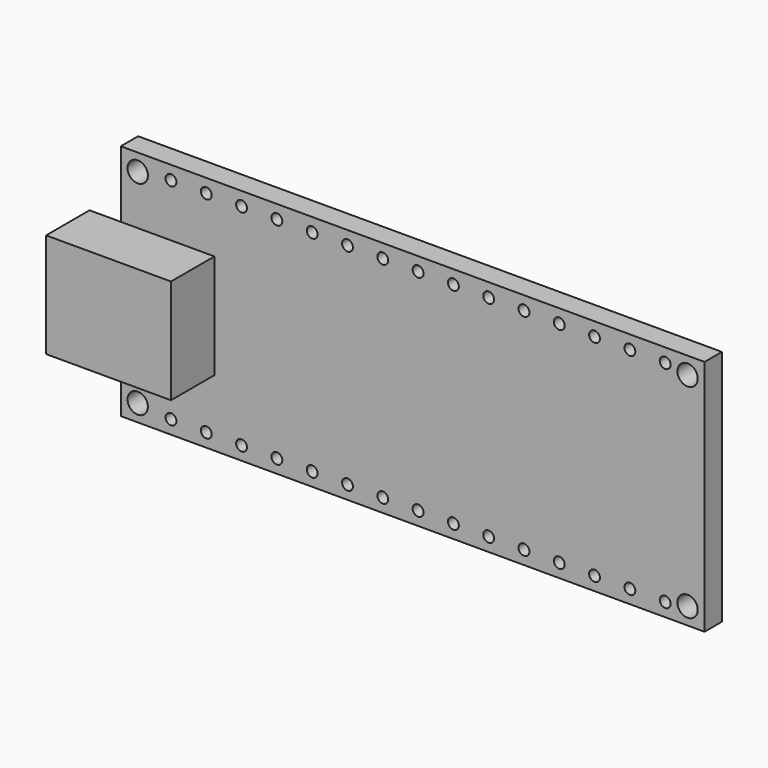
from build123d import *

# Parameters (mm, degrees)
F0_W     = 43
F0_H     = 17.5
F1_DEPTH = 1.6
F2_W     = 9.2
F2_H     = 7.7
F3_DEPTH = 4
F4_R     = 0.75
F5_DEPTH = 1.601
F6_R     = 0.4
F7_DEPTH = 1.601


with BuildPart() as f1:
    # F0 (on Front) → F1 (new body)
    with BuildSketch(Plane.XZ):
        Rectangle(F0_W, F0_H)
    extrude(amount=F1_DEPTH)

    # F2 (on face) → F3 (join)
    with BuildSketch(Plane.XZ.offset(1.6)):
        with Locations((-19.2, 0)):
            Rectangle(F2_W, F2_H)
    extrude(amount=F3_DEPTH)

    # F4 (on face) → F5 (cut, through all)
    with BuildSketch(Plane.XZ.offset(1.6)):
        with Locations((-20.25, 7.5)):
            Circle(F4_R)
        with Locations((-20.25, -7.5)):
            Circle(F4_R)
        with Locations((20.25, 7.5)):
            Circle(F4_R)
        with Locations((20.25, -7.5)):
            Circle(F4_R)
    extrude(amount=-F5_DEPTH, mode=Mode.SUBTRACT)

    # F6 (on face) → F7 (cut, through all)
    with BuildSketch(Plane.XZ.offset(1.6)):
        with Locations((-17.8, 7.75)):
            Circle(F6_R)
        with Locations((-15.2, 7.75)):
            Circle(F6_R)
        with Locations((-12.6, 7.75)):
            Circle(F6_R)
        with Locations((-10, 7.75)):
            Circle(F6_R)
        with Locations((-7.4, 7.75)):
            Circle(F6_R)
        with Locations((-4.8, 7.75)):
            Circle(F6_R)
        with Locations((-2.2, 7.75)):
            Circle(F6_R)
        with Locations((0.4, 7.75)):
            Circle(F6_R)
        with Locations((3, 7.75)):
            Circle(F6_R)
        with Locations((5.6, 7.75)):
            Circle(F6_R)
        with Locations((8.2, 7.75)):
            Circle(F6_R)
        with Locations((10.8, 7.75)):
            Circle(F6_R)
        with Locations((13.4, 7.75)):
            Circle(F6_R)
        with Locations((16, 7.75)):
            Circle(F6_R)
        with Locations((18.6, 7.75)):
            Circle(F6_R)
        with Locations((-17.8, -7.75)):
            Circle(F6_R)
        with Locations((-15.2, -7.75)):
            Circle(F6_R)
        with Locations((-12.6, -7.75)):
            Circle(F6_R)
        with Locations((0.4, -7.75)):
            Circle(F6_R)
        with Locations((-7.4, -7.75)):
            Circle(F6_R)
        with Locations((-4.8, -7.75)):
            Circle(F6_R)
        with Locations((-2.2, -7.75)):
            Circle(F6_R)
        with Locations((-10, -7.75)):
            Circle(F6_R)
        with Locations((18.6, -7.75)):
            Circle(F6_R)
        with Locations((16, -7.75)):
            Circle(F6_R)
        with Locations((13.4, -7.75)):
            Circle(F6_R)
        with Locations((5.6, -7.75)):
            Circle(F6_R)
        with Locations((3, -7.75)):
            Circle(F6_R)
        with Locations((8.2, -7.75)):
            Circle(F6_R)
        with Locations((10.8, -7.75)):
            Circle(F6_R)
    extrude(amount=-F7_DEPTH, mode=Mode.SUBTRACT)


solid = f1.part
